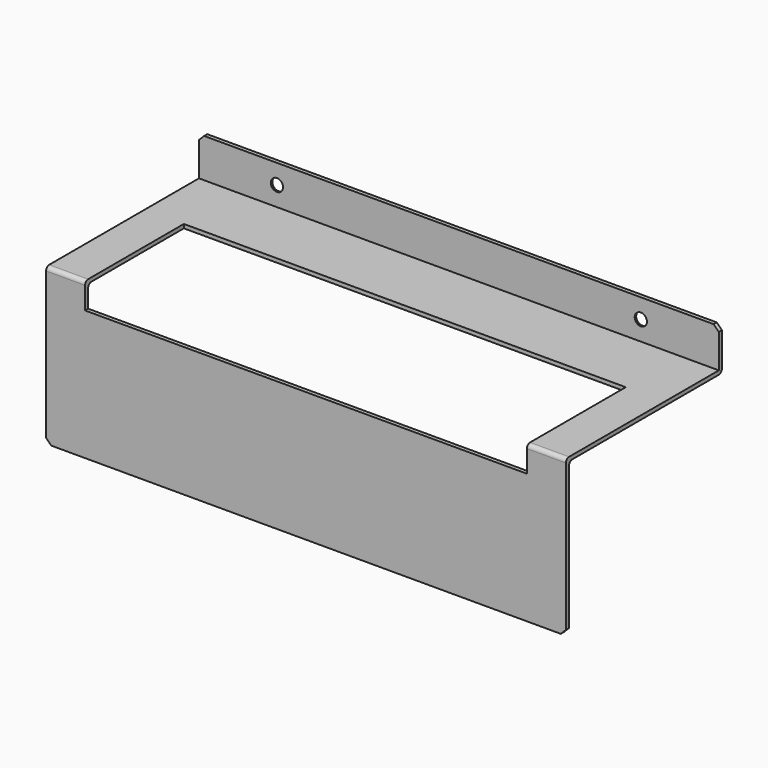
from build123d import *

# Parameters (mm, degrees)
F1_DEPTH       = 200
F2_SIZE        = 2
F4_D           = 4.7
F4_CSINK_D     = 6.3
F4_CSINK_ANGLE = 90
F6_DEPTH       = 10
F7_R           = 1.5


with BuildPart() as f1:
    # F0 (on Right) → F1 (new body)
    with BuildSketch(Plane.YZ):
        Polygon((25.307591, 44.168082), (-48.192409, 44.168082), (-48.192409, -15.831918), (-46.692409, -15.831918), (-46.692409, 42.668082), (26.807591, 42.668082), (26.807591, 44.168082), (26.807591, 59.168082), (25.307591, 59.168082), align=None)
    extrude(amount=F1_DEPTH)

    # F2
    f2_edges = [f1.edges().sort_by_distance(p)[0] for p in [
        (200, 26.057591, 59.168082),
        (0, 26.057591, 59.168082),
        (0, -47.442409, -15.831918),
        (200, -47.442409, -15.831918),
    ]]
    chamfer(f2_edges, length=F2_SIZE)

    # F4 (through all)
    with Locations(Plane(origin=(0, 26.807591, 0), x_dir=(-1, 0, 0), z_dir=(0, 1, 0))):
        with Locations((-170, 51.668082), (-30, 51.668082)):
            CounterSinkHole(F4_D / 2, F4_CSINK_D / 2, counter_sink_angle=F4_CSINK_ANGLE)

    # F5 (on face) → F6 (cut)
    with BuildSketch(Plane.XY.offset(44.168082)):
        Polygon((185, -53.390387), (185, -0.692409), (15, -0.692409), (15, -52.513979), align=None)
    extrude(amount=-F6_DEPTH, mode=Mode.SUBTRACT)

    # F7
    f7_edges = [f1.edges().sort_by_distance(p)[0] for p in [
        (7.5, -48.192409, 44.168082),
        (192.5, -48.192409, 44.168082),
        (100, 26.807591, 42.668082),
        (192.5, -46.692409, 42.668082),
        (7.5, -46.692409, 42.668082),
    ]]
    fillet(f7_edges, radius=F7_R)


solid = f1.part
